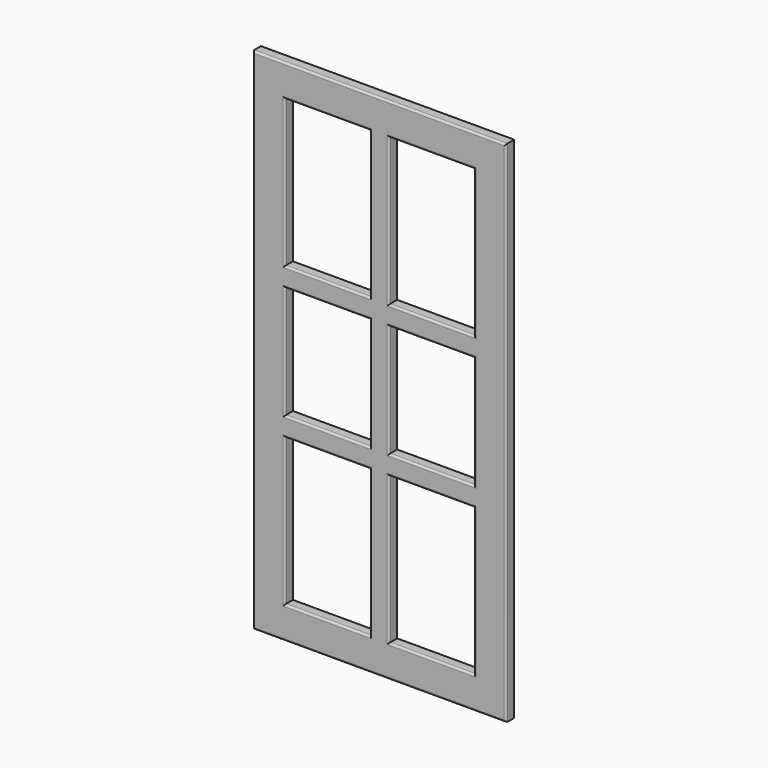
from build123d import *

# Parameters (mm, degrees)
F0_W      = 28.8499742746
F0_H      = 37.8827601671
F1_DEPTH  = 16
F2_DEPTH  = 296
F3_DEPTH  = 996
F4_W      = 199.8313069344
F4_H      = 801.1276721954
F5_DEPTH  = 5
F6_DEPTH  = 39.21
F7_DEPTH  = 2.24
F8_DEPTH  = 55.66
F9_DEPTH  = 1.59
F10_W     = 54.77245152
F10_H     = 895.9976721954
F11_DEPTH = 5
F12_DEPTH = 5.86
F13_DEPTH = 18.91
F14_W     = 83.0026693535
F14_H     = 34.9487662315
F14_H_2   = 55.274695158
F15_W     = 82.9961860609
F15_H     = 44.8832511902
F15_H_2   = 52.5203943253
F16_DEPTH = 5
F17_DEPTH = 300
F18_DEPTH = 300
F19_DEPTH = 324.79
F20_DEPTH = 324.79
F21_DEPTH = 250
F22_DEPTH = 250
F23_DEPTH = 100
F24_DEPTH = 100
F25_DEPTH = 50
F26_DEPTH = 50
F27_DEPTH = 134.02
F28_DEPTH = 100
F29_DEPTH = 100
F30_DEPTH = 100
F31_DEPTH = 50
F32_DEPTH = 54.95
F33_DEPTH = 50
F34_DEPTH = 109.29
F35_DEPTH = 14.88
F36_DEPTH = 230.15
F37_DEPTH = 230.15
F38_DEPTH = 22.52
F39_DEPTH = 77.2
F40_DEPTH = 77.2
F41_DEPTH = 11
F42_DEPTH = 200
F43_DEPTH = 200
F44_DEPTH = 200
F45_DEPTH = 70
F46_DEPTH = 70
F47_DEPTH = 70
F48_DEPTH = 70
F49_DEPTH = 100
F50_DEPTH = 50
F51_DEPTH = 100
F52_DEPTH = 50
F53_R     = 3


with BuildPart() as f1:
    # F0 (on Front) → F1 (new body)
    with BuildSketch(Plane.XZ):
        with Locations((14.4249871373, 18.9413800836)):
            Rectangle(F0_W, F0_H)
    extrude(amount=F1_DEPTH)

    # F2 (add): a face of the model
    f2_faces = [f1.faces().sort_by_distance(p)[0] for p in [
        (0, -8, 18.9413800836),
    ]]
    extrude(f2_faces, amount=-F2_DEPTH)

    # F3 (add): a face of the model
    f3_faces = [f1.faces().sort_by_distance(p)[0] for p in [
        (148, -8, 0),
    ]]
    extrude(f3_faces, amount=-F3_DEPTH)

    # F4 (on face) → F5 (cut)
    with BuildSketch(Plane.XZ.offset(16)):
        with Locations((148.3252942562, 506.2239170074)):
            Rectangle(F4_W, F4_H)
    extrude(amount=-F5_DEPTH, mode=Mode.SUBTRACT)

    # F6 (cut): a face of the model
    f6_faces = [f1.faces().sort_by_distance(p)[0] for p in [
        (148.3252942562, -13.5, 906.7877531052),
    ]]
    extrude(f6_faces, amount=-F6_DEPTH, mode=Mode.SUBTRACT)

    # F7 (add): a face of the model
    f7_faces = [f1.faces().sort_by_distance(p)[0] for p in [
        (248.2409477234, -13.5, 525.8289170074),
    ]]
    extrude(f7_faces, amount=F7_DEPTH)

    # F8 (cut): a face of the model
    f8_faces = [f1.faces().sort_by_distance(p)[0] for p in [
        (147.2052942562, -13.5, 105.6600809097),
    ]]
    extrude(f8_faces, amount=-F8_DEPTH, mode=Mode.SUBTRACT)

    # F9 (add): a face of the model
    f9_faces = [f1.faces().sort_by_distance(p)[0] for p in [
        (48.409640789, -13.5, 497.9989170074),
    ]]
    extrude(f9_faces, amount=F9_DEPTH)

    # F10 (on face) → F11 (join)
    with BuildSketch(Plane.XZ.offset(11)):
        with Locations((154.5285359025, 497.9989170074)):
            Rectangle(F10_W, F10_H)
    extrude(amount=F11_DEPTH)

    # F12 (cut): a face of the model
    f12_faces = [f1.faces().sort_by_distance(p)[0] for p in [
        (127.1423101425, -13.5, 497.9989170074),
    ]]
    extrude(f12_faces, amount=-F12_DEPTH, mode=Mode.SUBTRACT)

    # F13 (cut): a face of the model
    f13_faces = [f1.faces().sort_by_distance(p)[0] for p in [
        (181.9147616625, -13.5, 497.9989170074),
    ]]
    extrude(f13_faces, amount=-F13_DEPTH, mode=Mode.SUBTRACT)

    # F14 (on face) + F15 (on face) → F16 (join)
    with BuildSketch(Plane.XZ.offset(11)):
        with Locations((91.5009754658, 853.3093035221)):
            Rectangle(F14_W, F14_H)
        with Locations((91.5009754658, 511.6568356752)):
            Rectangle(F14_W, F14_H_2)
    with BuildSketch(Plane.XZ.offset(11)):
        with Locations((204.5028546929, 853.7013530731)):
            Rectangle(F15_W, F15_H)
        with Locations((204.5028546929, 576.5425562859)):
            Rectangle(F15_W, F15_H_2)
    extrude(amount=F16_DEPTH)

    # F17 (add): faces of the model
    f17_faces = [f1.faces().sort_by_distance(p)[0] for p in [
        (204.5028546929, -13.5, 550.2823591232),
        (91.5009754658, -13.5, 484.0194880962),
    ]]
    extrude(f17_faces, amount=F17_DEPTH)

    # F18 (cut): faces of the model
    f18_faces = [f1.faces().sort_by_distance(p)[0] for p in [
        (91.5009754658, -13.5, 539.2941832542),
        (204.5028546929, -13.5, 602.8027534485),
    ]]
    extrude(f18_faces, amount=-F18_DEPTH, mode=Mode.SUBTRACT)

    # F19 (add): a face of the model
    f19_faces = [f1.faces().sort_by_distance(p)[0] for p in [
        (91.5009754658, -13.5, 835.8349204063),
    ]]
    extrude(f19_faces, amount=F19_DEPTH)

    # F20 (cut): a face of the model
    f20_faces = [f1.faces().sort_by_distance(p)[0] for p in [
        (91.5009754658, -13.5, 870.7836866379),
    ]]
    extrude(f20_faces, amount=-F20_DEPTH, mode=Mode.SUBTRACT)

    # F21 (add): a face of the model
    f21_faces = [f1.faces().sort_by_distance(p)[0] for p in [
        (91.5009754658, -13.5, 239.2941832542),
    ]]
    extrude(f21_faces, amount=F21_DEPTH)

    # F22 (cut): a face of the model
    f22_faces = [f1.faces().sort_by_distance(p)[0] for p in [
        (91.5009754658, -13.5, 184.0194880962),
    ]]
    extrude(f22_faces, amount=-F22_DEPTH, mode=Mode.SUBTRACT)

    # F23 (add): a face of the model
    f23_faces = [f1.faces().sort_by_distance(p)[0] for p in [
        (91.5009754658, -13.5, 545.9936866379),
    ]]
    extrude(f23_faces, amount=F23_DEPTH)

    # F24 (cut): a face of the model
    f24_faces = [f1.faces().sort_by_distance(p)[0] for p in [
        (91.5009754658, -13.5, 511.0449204063),
    ]]
    extrude(f24_faces, amount=-F24_DEPTH, mode=Mode.SUBTRACT)

    # F25 (add): a face of the model
    f25_faces = [f1.faces().sort_by_distance(p)[0] for p in [
        (91.5009754658, -13.5, 645.9936866379),
    ]]
    extrude(f25_faces, amount=F25_DEPTH)

    # F26 (cut): a face of the model
    f26_faces = [f1.faces().sort_by_distance(p)[0] for p in [
        (91.5009754658, -13.5, 611.0449204063),
    ]]
    extrude(f26_faces, amount=-F26_DEPTH, mode=Mode.SUBTRACT)

    # F27 (add): a face of the model
    f27_faces = [f1.faces().sort_by_distance(p)[0] for p in [
        (91.5009754658, -13.5, 434.0194880962),
    ]]
    extrude(f27_faces, amount=F27_DEPTH)

    # F28 (cut): a face of the model
    f28_faces = [f1.faces().sort_by_distance(p)[0] for p in [
        (91.5009754658, -13.5, 299.9994880962),
    ]]
    extrude(f28_faces, amount=-F28_DEPTH, mode=Mode.SUBTRACT)

    # F29 (add): a face of the model
    f29_faces = [f1.faces().sort_by_distance(p)[0] for p in [
        (91.5009754658, -13.5, 661.0449204063),
    ]]
    extrude(f29_faces, amount=F29_DEPTH)

    # F30 (cut): a face of the model
    f30_faces = [f1.faces().sort_by_distance(p)[0] for p in [
        (91.5009754658, -13.5, 695.9936866379),
    ]]
    extrude(f30_faces, amount=-F30_DEPTH, mode=Mode.SUBTRACT)

    # F31 (add): a face of the model
    f31_faces = [f1.faces().sort_by_distance(p)[0] for p in [
        (91.5009754658, -13.5, 595.9936866379),
    ]]
    extrude(f31_faces, amount=F31_DEPTH)

    # F32 (cut): a face of the model
    f32_faces = [f1.faces().sort_by_distance(p)[0] for p in [
        (91.5009754658, -13.5, 561.0449204063),
    ]]
    extrude(f32_faces, amount=-F32_DEPTH, mode=Mode.SUBTRACT)

    # F33 (add): a face of the model
    f33_faces = [f1.faces().sort_by_distance(p)[0] for p in [
        (91.5009754658, -13.5, 399.9994880962),
    ]]
    extrude(f33_faces, amount=F33_DEPTH)

    # F34 (cut): a face of the model
    f34_faces = [f1.faces().sort_by_distance(p)[0] for p in [
        (91.5009754658, -13.5, 489.2941832542),
    ]]
    extrude(f34_faces, amount=-F34_DEPTH, mode=Mode.SUBTRACT)

    # F35 (cut): a face of the model
    f35_faces = [f1.faces().sort_by_distance(p)[0] for p in [
        (204.5028546929, -13.5, 831.259727478),
    ]]
    extrude(f35_faces, amount=-F35_DEPTH, mode=Mode.SUBTRACT)

    # F36 (add): a face of the model
    f36_faces = [f1.faces().sort_by_distance(p)[0] for p in [
        (204.5028546929, -13.5, 846.139727478),
    ]]
    extrude(f36_faces, amount=F36_DEPTH)

    # F37 (cut): a face of the model
    f37_faces = [f1.faces().sort_by_distance(p)[0] for p in [
        (204.5028546929, -13.5, 876.1429786682),
    ]]
    extrude(f37_faces, amount=-F37_DEPTH, mode=Mode.SUBTRACT)

    # F38 (cut): a face of the model
    f38_faces = [f1.faces().sort_by_distance(p)[0] for p in [
        (204.5028546929, -13.5, 250.2823591232),
    ]]
    extrude(f38_faces, amount=-F38_DEPTH, mode=Mode.SUBTRACT)

    # F39 (add): a face of the model
    f39_faces = [f1.faces().sort_by_distance(p)[0] for p in [
        (204.5028546929, -13.5, 302.8027534485),
    ]]
    extrude(f39_faces, amount=F39_DEPTH)

    # F40 (cut): a face of the model
    f40_faces = [f1.faces().sort_by_distance(p)[0] for p in [
        (204.5028546929, -13.5, 272.8023591232),
    ]]
    extrude(f40_faces, amount=-F40_DEPTH, mode=Mode.SUBTRACT)

    # F41 (cut): faces of the model
    f41_faces = [f1.faces().sort_by_distance(p)[0] for p in [
        (91.5009754658, -11, 795.9957198715),
        (204.5028546929, -11, 795.9953658867),
        (204.5028546929, -11, 497.9962404633),
        (91.5009754658, -11, 497.9995518303),
        (91.5009754658, -11, 199.999784503),
        (204.5028546929, -11, 200.0012200165),
    ]]
    extrude(f41_faces, amount=-F41_DEPTH, mode=Mode.SUBTRACT)

    # F42 (add): faces of the model
    f42_faces = [f1.faces().sort_by_distance(p)[0] for p in [
        (204.5028546929, -8, 615.989727478),
        (91.5009754658, -8, 615.9949204063),
    ]]
    extrude(f42_faces, amount=F42_DEPTH)

    # F43 (add): faces of the model
    f43_faces = [f1.faces().sort_by_distance(p)[0] for p in [
        (91.5009754658, -8, 945.9977531052),
        (204.5028546929, -8, 945.9977531052),
    ]]
    extrude(f43_faces, amount=F43_DEPTH)

    # F44 (cut): faces of the model
    f44_faces = [f1.faces().sort_by_distance(p)[0] for p in [
        (148, -8, 996),
        (91.5009754658, -8, 645.9936866379),
        (204.5028546929, -8, 645.9929786682),
    ]]
    extrude(f44_faces, amount=-F44_DEPTH, mode=Mode.SUBTRACT)

    # F45 (add): faces of the model
    f45_faces = [f1.faces().sort_by_distance(p)[0] for p in [
        (204.5028546929, -8, 350.0023591232),
        (91.5009754658, -8, 349.9994880962),
    ]]
    extrude(f45_faces, amount=F45_DEPTH)

    # F46 (cut): faces of the model
    f46_faces = [f1.faces().sort_by_distance(p)[0] for p in [
        (204.5028546929, -8, 380.0027534485),
        (91.5009754658, -8, 380.0041832542),
    ]]
    extrude(f46_faces, amount=-F46_DEPTH, mode=Mode.SUBTRACT)

    # F47 (add): faces of the model
    f47_faces = [f1.faces().sort_by_distance(p)[0] for p in [
        (204.5028546929, -8, 445.9929786682),
        (91.5009754658, -8, 445.9936866379),
    ]]
    extrude(f47_faces, amount=F47_DEPTH)

    # F48 (cut): faces of the model
    f48_faces = [f1.faces().sort_by_distance(p)[0] for p in [
        (204.5028546929, -8, 415.989727478),
        (91.5009754658, -8, 415.9949204063),
    ]]
    extrude(f48_faces, amount=-F48_DEPTH, mode=Mode.SUBTRACT)

    # F49 (add): a face of the model
    f49_faces = [f1.faces().sort_by_distance(p)[0] for p in [
        (296, -8, 398),
    ]]
    extrude(f49_faces, amount=F49_DEPTH)

    # F50 (add): faces of the model
    f50_faces = [f1.faces().sort_by_distance(p)[0] for p in [
        (163.0047616625, -8, 397.9962404633),
        (163.0047616625, -8, 165.0012200165),
        (163.0047616625, -8, 630.9953658867),
    ]]
    extrude(f50_faces, amount=F50_DEPTH)

    # F51 (cut): faces of the model
    f51_faces = [f1.faces().sort_by_distance(p)[0] for p in [
        (246.0009477234, -8, 630.9953658867),
        (246.0009477234, -8, 397.9962404633),
        (246.0009477234, -8, 165.0012200165),
    ]]
    extrude(f51_faces, amount=-F51_DEPTH, mode=Mode.SUBTRACT)

    # F52 (cut): faces of the model
    f52_faces = [f1.faces().sort_by_distance(p)[0] for p in [
        (133.0023101425, -8, 397.9995518303),
        (133.0023101425, -8, 630.9957198715),
        (133.0023101425, -8, 164.999784503),
    ]]
    extrude(f52_faces, amount=-F52_DEPTH, mode=Mode.SUBTRACT)

    # F53
    f53_edges = [f1.edges().sort_by_distance(p)[0] for p in [
        (0, -16, 398),
        (198, -16, 0),
        (396, -16, 398),
        (198, -16, 796),
        (116.500975, -16, 279.999488),
        (183.00231, -16, 164.999785),
        (116.500975, -16, 50.000081),
        (49.999641, -16, 164.999785),
        (279.502855, -16, 280.002359),
        (346.000948, -16, 165.00122),
        (279.502855, -16, 50.000081),
        (213.004762, -16, 165.00122),
        (279.502855, -16, 310.002753),
        (213.004762, -16, 397.99624),
        (279.502855, -16, 485.989727),
        (346.000948, -16, 397.99624),
        (116.500975, -16, 310.004183),
        (49.999641, -16, 397.999552),
        (116.500975, -16, 485.99492),
        (183.00231, -16, 397.999552),
        (116.500975, -16, 515.993687),
        (49.999641, -16, 630.99572),
        (116.500975, -16, 745.997753),
        (183.00231, -16, 630.99572),
        (213.004762, -16, 630.995366),
        (279.502855, -16, 745.997753),
        (346.000948, -16, 630.995366),
        (279.502855, -16, 515.992979),
    ]]
    fillet(f53_edges, radius=F53_R)


solid = f1.part
